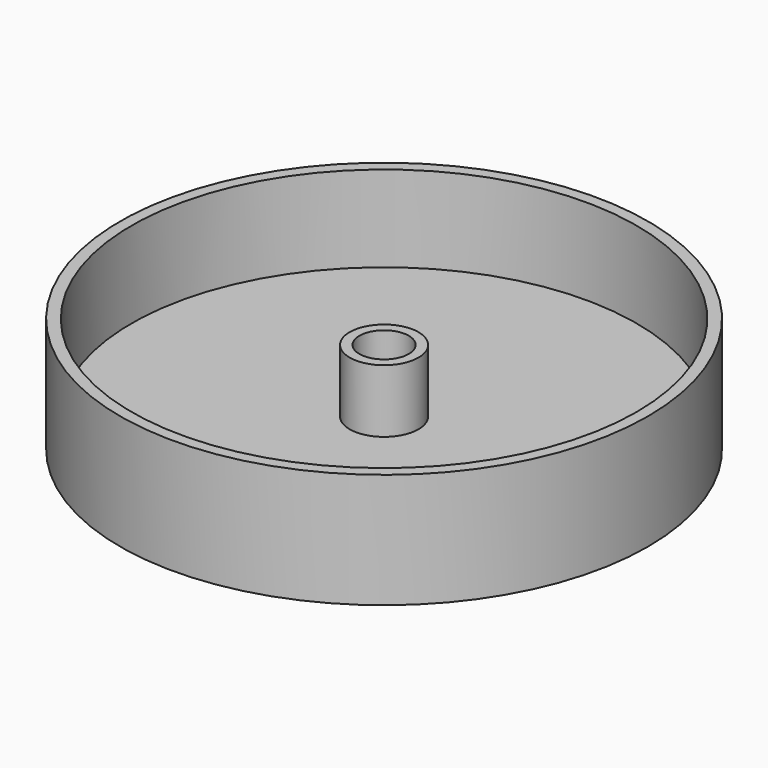
from build123d import *

# Parameters (mm, degrees)
F0_R     = 23
F1_DEPTH = 10
F2_R     = 22
F2_R_2   = 3
F2_R_3   = 2.15
F3_DEPTH = 7.5
F4_DEPTH = 2


with BuildPart() as f1:
    # F0 (on Top) → F1 (new body)
    with BuildSketch(Plane.XY):
        Circle(F0_R)
    extrude(amount=F1_DEPTH)

    # F2 (on face) → F3 (cut)
    with BuildSketch(Plane.XY.offset(10)):
        Circle(F2_R)
        Circle(F2_R_2, mode=Mode.SUBTRACT)
        Circle(F2_R_3)
    extrude(amount=-F3_DEPTH, mode=Mode.SUBTRACT)

    # F4 (cut): a face of the model
    f4_faces = [f1.faces().sort_by_distance(p)[0] for p in [
        (-2.9151471863, 0, 10),
    ]]
    extrude(f4_faces, amount=-F4_DEPTH, mode=Mode.SUBTRACT)


solid = f1.part
